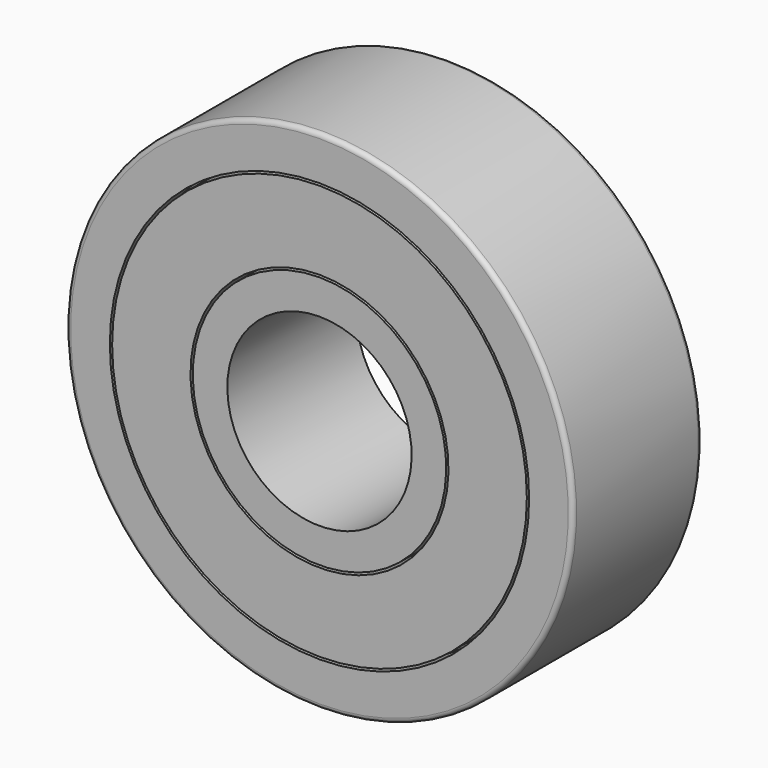
from build123d import *

# Parameters (mm, degrees)
SKETCH136_R             = 11
SKETCH136_R_2           = 4
PAD041_DEPTH            = 7
SKETCH135_R             = 5.6
SKETCH135_R_2           = 5.5
POCKET082_DEPTH         = 1.5
SKETCH137_R             = 5.6
SKETCH137_R_2           = 5.5
POCKET085_DEPTH         = 3
SKETCH133_R             = 9.1
SKETCH133_R_2           = 9
POCKET083_DEPTH         = 1
SKETCH134_R             = 9.1
SKETCH134_R_2           = 9
POCKET084_DEPTH         = 1
FILLET004_R             = 0.2
BODY032_PITCH_ANGLE     = -90
BODY032_PLACEMENT_ANGLE = 90


with BuildPart() as part:
    # Sketch136 → Pad041 (new body)
    with BuildSketch(Plane.XY):
        Circle(SKETCH136_R)
        Circle(SKETCH136_R_2, mode=Mode.SUBTRACT)
    extrude(amount=PAD041_DEPTH)

    # Sketch135 (on Face4 of Pad041) → Pocket082 (cut, symmetric)
    with BuildSketch(Plane.XY.offset(7)):
        Circle(SKETCH135_R)
        Circle(SKETCH135_R_2, mode=Mode.SUBTRACT)
    extrude(amount=POCKET082_DEPTH, both=True, mode=Mode.SUBTRACT)

    # Sketch137 (on Face2 of Pocket082) → Pocket085 (cut)
    with BuildSketch(Plane(origin=(0, 0, 0), x_dir=(1, 0, 0), z_dir=(0, 0, -1))):
        Circle(SKETCH137_R)
        Circle(SKETCH137_R_2, mode=Mode.SUBTRACT)
    extrude(amount=-POCKET085_DEPTH, mode=Mode.SUBTRACT)

    # Sketch133 (on Face3 of Pocket085) → Pocket083 (cut)
    with BuildSketch(Plane.XY.offset(7)):
        Circle(SKETCH133_R)
        Circle(SKETCH133_R_2, mode=Mode.SUBTRACT)
    extrude(amount=-POCKET083_DEPTH, mode=Mode.SUBTRACT)

    # Sketch134 (on Face2 of Pocket083) → Pocket084 (cut)
    with BuildSketch(Plane(origin=(0, 0, 0), x_dir=(1, 0, 0), z_dir=(0, 0, -1))):
        Circle(SKETCH134_R)
        Circle(SKETCH134_R_2, mode=Mode.SUBTRACT)
    extrude(amount=-POCKET084_DEPTH, mode=Mode.SUBTRACT)

    # Fillet004
    fillet004_edges = [part.edges().sort_by_distance(p)[0] for p in [
        (-11, 0, 0),
        (-11, 0, 7),
    ]]
    fillet(fillet004_edges, radius=FILLET004_R)


with BuildPart() as part_1:
    # Body032 pitch: moved
    add(part.part.rotate(Axis((0, 0, 0), (0, 1, 0)), BODY032_PITCH_ANGLE))


with BuildPart() as part_2:
    # Body032 placement: moved
    add(part_1.part.moved(Location((0, -55, 296.75))).rotate(Axis((0, -55, 296.75), (0, 0, 1)), BODY032_PLACEMENT_ANGLE))


solid = part_2.part
